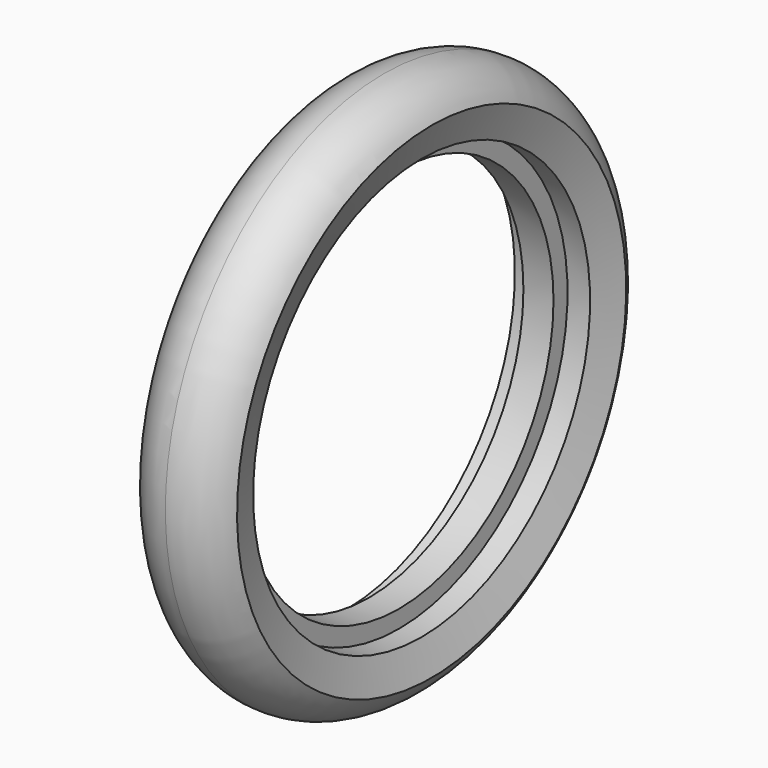
from build123d import *


with BuildPart() as f1:
    # F0 (on Front) → F1 (revolve)
    with BuildSketch(Plane.XZ):
        with BuildLine():
            Line((-3, 38.5), (0, 38.5))
            Line((0, 38.5), (3, 38.5))
            Line((3, 38.5), (3, 42))
            Line((3, 42), (7.5, 42))
            Line((7.5, 42), (9.5, 48.5))
            ThreePointArc((9.5, 48.5), (5.618051, 52.874415), (0, 54.5))
            ThreePointArc((0, 54.5), (-5.618051, 52.874415), (-9.5, 48.5))
            Line((-9.5, 48.5), (-7.5, 42))
            Line((-7.5, 42), (-3, 42))
            Line((-3, 42), (-3, 38.5))
        make_face()
    revolve(axis=Axis((1.137464, 0, 0), (1, 0, 0)))


solid = f1.part
